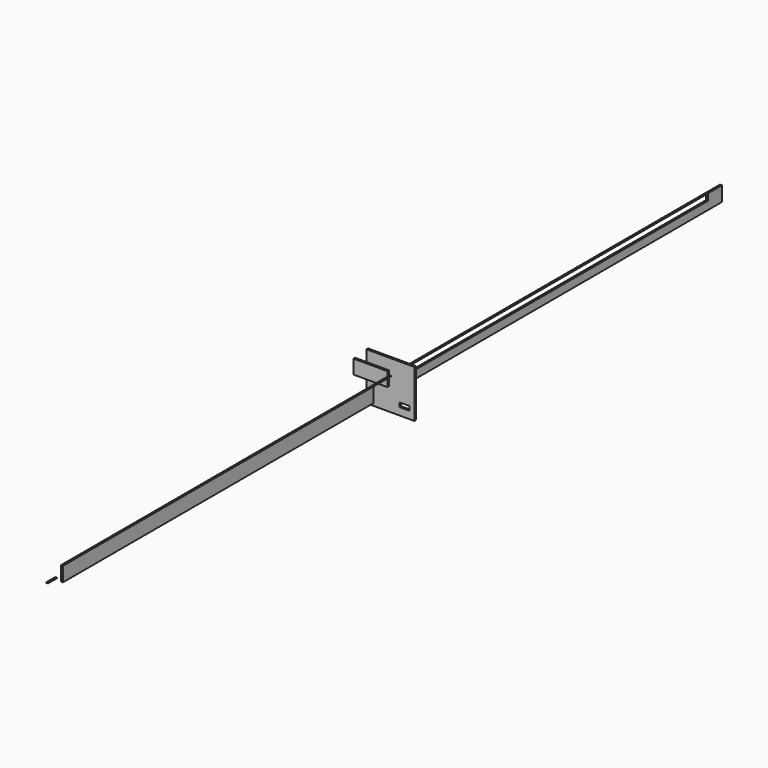
from build123d import *

# Parameters (mm, degrees)
F0_W     = 147.914886
F0_H     = 3.887745
F0_W_2   = 5024.930954
F0_H_2   = 188.515387
F0_W_3   = 5421.196938
F0_H_3   = 2.225697
F1_DEPTH = 25.4
F2_W     = 325.817824
F2_H     = 229.171991
F2_W_2   = 293.622017
F2_W_3   = 132.228852
F2_H_2   = 54.629802
F3_DEPTH = 25.4
F5_W     = 220.123529
F5_H     = 50.397665
F5_W_2   = 220.12353
F6_DEPTH = 25.4


with BuildPart() as f1:
    # F0 (on Right) → F1 (new body)
    with BuildSketch(Plane.YZ):
        with Locations((-5514.489174, -8.991063)):
            Rectangle(F0_W, F0_H)
        with Locations((-2833.780289, -2.851534)):
            Rectangle(F0_W_2, F0_H_2)
        with Locations((2389.283657, 92.519008)):
            Rectangle(F0_W_3, F0_H_3)
        Polygon((5099.882126, 93.631856), (5099.882126, 91.406159), (5099.882126, 8.258243), (5325.595379, 8.258243), (5325.595379, 93.631856), align=None)
        Polygon((5325.595379, 8.258243), (5099.882126, 8.258243), (0, 8.258243), (0, -97.109228), (5325.595379, -97.109228), align=None)
    extrude(amount=F1_DEPTH)

    # F2 (on Front) → F3 (join)
    with BuildSketch(Plane.XZ):
        with Locations((-135.298133, -208.68504)):
            Rectangle(F2_W, F2_H)
        with Locations((174.421787, -208.68504)):
            Rectangle(F2_W_2, F2_H)
        with Locations((192.611456, -199.992299)):
            Rectangle(F2_W_3, F2_H_2, mode=Mode.SUBTRACT)
        Polygon((-298.207045, -94.099045), (27.610779, -94.099045), (321.232796, -94.099045), (321.232796, 292.58728), (-298.207045, 292.58728), align=None)
    extrude(amount=F3_DEPTH)

    # F5 (on face) → F6 (join)
    with BuildSketch(Plane.XZ.offset(25.4)):
        Polygon((-8.425236, -33.787251), (-8.425236, 97.968727), (-228.548765, 97.968727), (-448.672295, 97.968727), (-448.672295, -33.787251), align=None)
        with Locations((-118.487001, 123.167559)):
            Rectangle(F5_W, F5_H)
        with Locations((-338.61053, 123.167559)):
            Rectangle(F5_W_2, F5_H)
    extrude(amount=F6_DEPTH)


solid = f1.part
